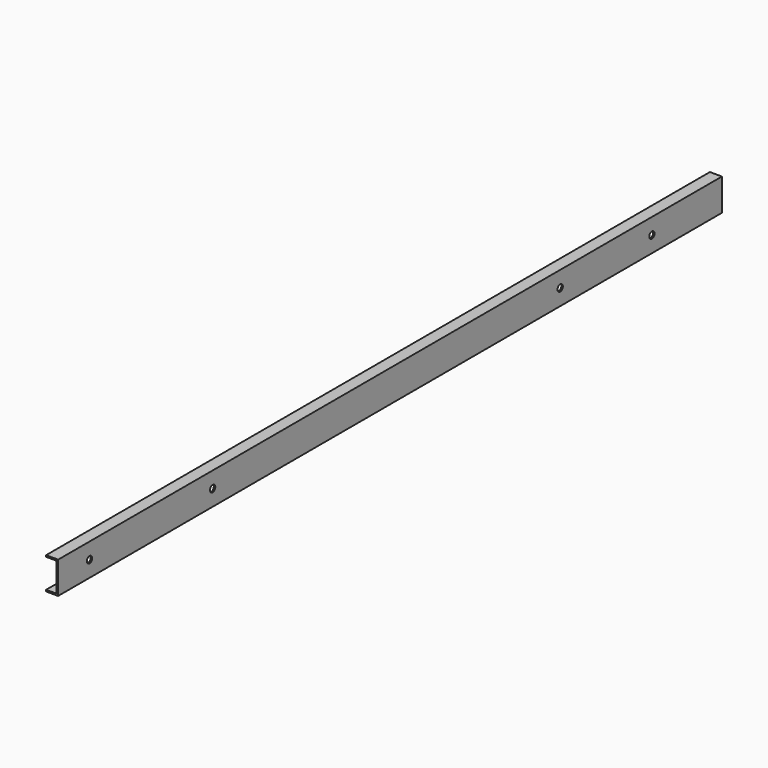
from build123d import *

# Parameters (mm, degrees)
F1_DEPTH = 550
F2_R     = 2.2
F3_DEPTH = 1


with BuildPart() as f1:
    # F0 (on Front) → F1 (new body)
    with BuildSketch(Plane.XZ):
        Polygon((5, 13), (5, 12), (13, 12), (13, 33.2), (5, 33.2), (5, 32.2), (6, 32.2), (12, 32.2), (12, 13), (6, 13), align=None)
    extrude(amount=-F1_DEPTH)

    # F2 (on face) → F3 (cut)
    with BuildSketch(Plane.YZ.offset(13)):
        with Locations((26, 22.6)):
            Circle(F2_R)
        with Locations((128, 22.6)):
            Circle(F2_R)
        with Locations((416, 22.6)):
            Circle(F2_R)
        with Locations((492, 22.6)):
            Circle(F2_R)
    extrude(amount=-F3_DEPTH, mode=Mode.SUBTRACT)


solid = f1.part
